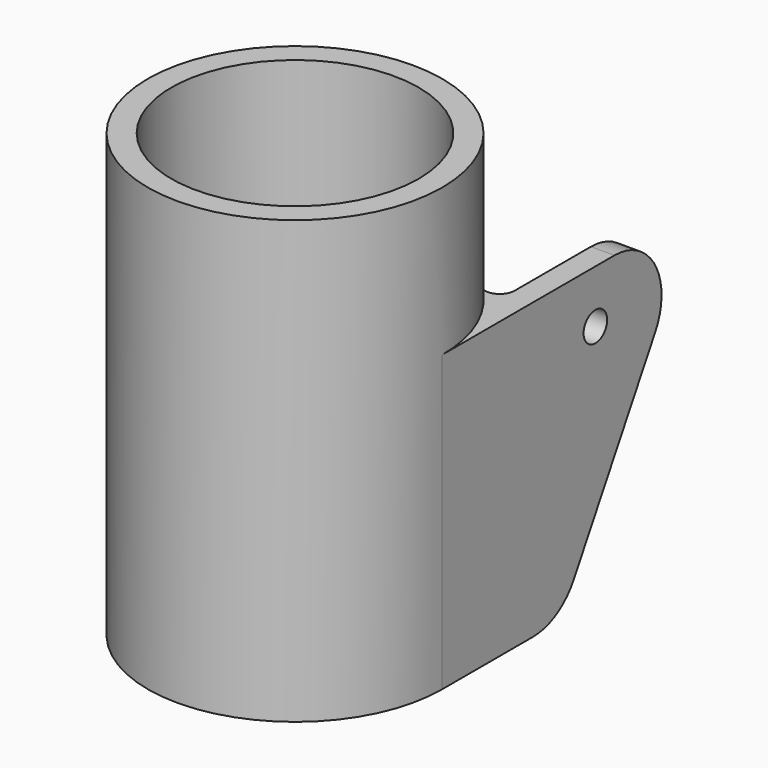
from build123d import *

# Parameters (mm, degrees)
F0_R     = 10
F1_DEPTH = 1
F2_R     = 10
F2_R_2   = 8.4
F3_DEPTH = 29
F6_DEPTH = 1.6
F7_R     = 1
F8_DEPTH = 1.6
F9_R     = 4
F10_R    = 1


with BuildPart() as f1:
    # F0 (on Top) → F1 (new body)
    with BuildSketch(Plane.XY):
        Circle(F0_R)
    extrude(amount=F1_DEPTH)

    # F2 (on face) → F3 (join)
    with BuildSketch(Plane.XY.offset(1)):
        Circle(F2_R)
        Circle(F2_R_2, mode=Mode.SUBTRACT)
    extrude(amount=F3_DEPTH)

    # F5 (on offset) → F6 (join)
    with BuildSketch(Plane.YZ.offset(10)):
        Polygon((0, 20), (0, 0), (10, 0), (21.547005, 20), align=None)
    extrude(amount=-F6_DEPTH)

    # F7 (on face) → F8 (cut, through all)
    with BuildSketch(Plane.YZ.offset(10)):
        with Locations((13, 16.4)):
            Circle(F7_R)
    extrude(amount=-F8_DEPTH, mode=Mode.SUBTRACT)

    # F9
    f9_edges = [f1.edges().sort_by_distance(p)[0] for p in [
        (9.2, 21.547005, 20),
        (9.2, 10, 0),
    ]]
    fillet(f9_edges, radius=F9_R)

    # F10
    f10_edges = [f1.edges().sort_by_distance(p)[0] for p in [
        (8.4, 5.425864, 10),
    ]]
    fillet(f10_edges, radius=F10_R)


solid = f1.part
